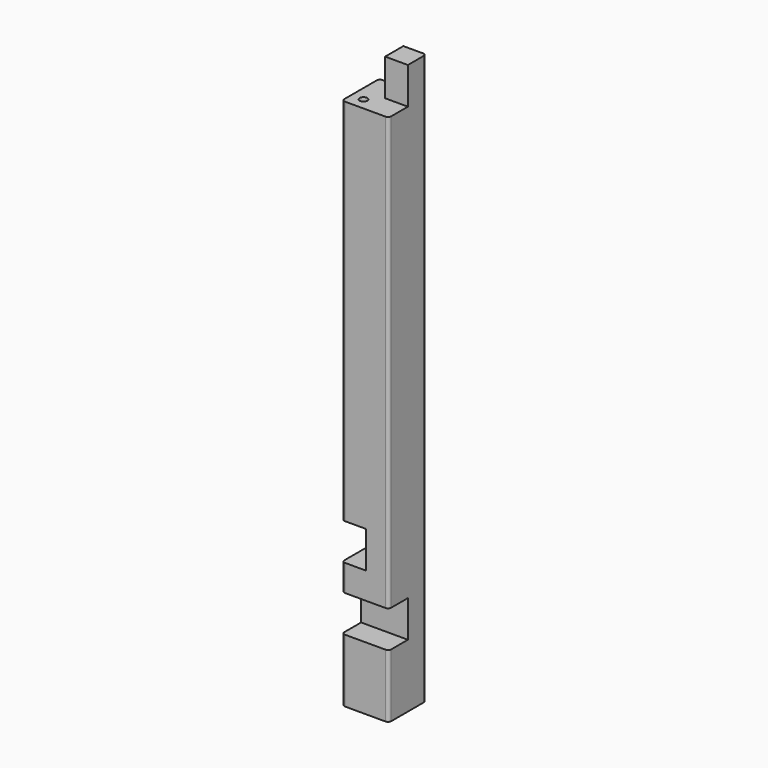
from build123d import *

# Parameters (mm, degrees)
F0_W      = 74
F0_H      = 74
F1_DEPTH  = 900
F2_W      = 74
F2_H      = 58
F4_DEPTH  = 38
F3_W      = 74
F3_H      = 58
F5_DEPTH  = 38
F7_D      = 12
F7_DEPTH  = 40
F7_TIP    = 3.6051637142
F8_W      = 74
F8_H      = 58
F9_DEPTH  = 38
F10_W     = 74
F10_H     = 58
F11_DEPTH = 38
F12_R     = 5


with BuildPart() as f1:
    # F0 (on Top) → F1 (new body)
    with BuildSketch(Plane.XY):
        Rectangle(F0_W, F0_H)
    extrude(amount=-F1_DEPTH)

    # F2 (on face) → F4 (cut)
    with BuildSketch(Plane.XZ.offset(37)):
        with Locations((0, -29)):
            Rectangle(F2_W, F2_H)
    extrude(amount=-F4_DEPTH, mode=Mode.SUBTRACT)

    # F3 (on face) → F5 (cut)
    with BuildSketch(Plane(origin=(-37, 0, 0), x_dir=(0, -1, 0), z_dir=(-1, 0, 0))):
        with Locations((0, -29)):
            Rectangle(F3_W, F3_H)
    extrude(amount=-F5_DEPTH, mode=Mode.SUBTRACT)

    # F7
    with Locations(Plane.XY.offset(-58)):
        with Locations((-18, -18)):
            Hole(F7_D / 2, depth=F7_DEPTH)
            with Locations((0, 0, -(F7_DEPTH + F7_TIP / 2))):  # 118° drill point
                Cone(0, F7_D / 2, F7_TIP, mode=Mode.SUBTRACT)

    # F8 (on face) → F9 (cut)
    with BuildSketch(Plane.XZ.offset(37)):
        with Locations((0, -771)):
            Rectangle(F8_W, F8_H)
    extrude(amount=-F9_DEPTH, mode=Mode.SUBTRACT)

    # F10 (on face) → F11 (cut)
    with BuildSketch(Plane(origin=(-37, 0, 0), x_dir=(0, -1, 0), z_dir=(-1, 0, 0))):
        with Locations((0, -671)):
            Rectangle(F10_W, F10_H)
    extrude(amount=-F11_DEPTH, mode=Mode.SUBTRACT)

    # F12
    f12_edges = [f1.edges().sort_by_distance(p)[0] for p in [
        (-37, -37, -850),
        (-37, -37, -721),
        (-37, -37, -350),
        (-37, 37, -350),
        (-37, 37, -800),
        (37, -37, -850),
        (37, -37, -400),
        (37, 37, -450),
    ]]
    fillet(f12_edges, radius=F12_R)


solid = f1.part
